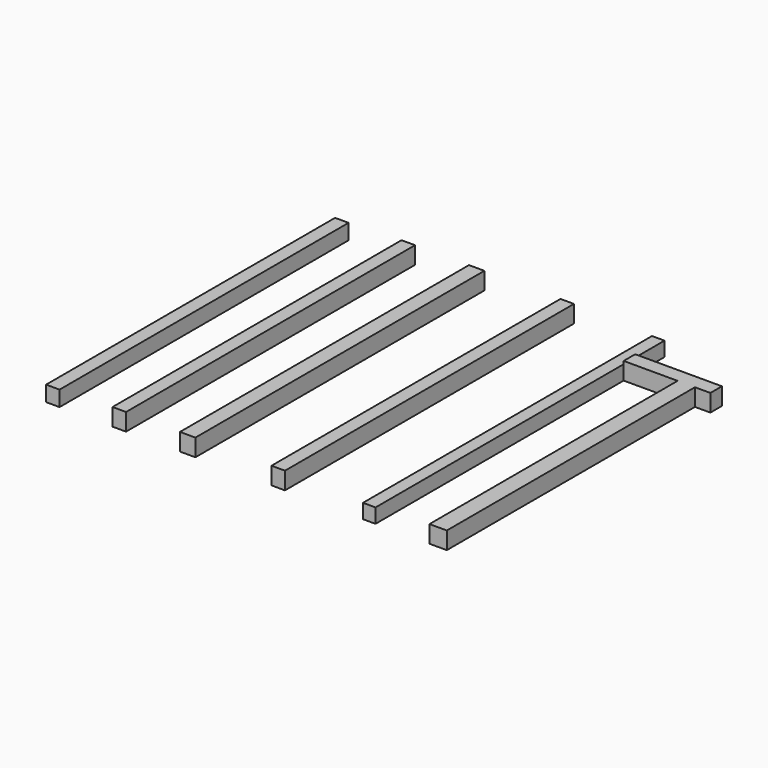
from build123d import *

# Parameters (mm, degrees)
F0_W     = 180
F0_H     = 3220
F0_W_2   = 140
F0_H_2   = 3750
F0_W_3   = 160
F1_DEPTH = 180
F2_DEPTH = 150
F3_DEPTH = 160


with BuildPart() as f1:
    # F0 (on Top) → F1 (new body)
    with BuildSketch(Plane.XY):
        Polygon((1910, 1495), (1010, 1495), (1010, 1345), (1570, 1345), (1750, 1345), (1910, 1345), align=None)
        with Locations((1660, -265)):
            Rectangle(F0_W, F0_H)
        Rectangle(F0_W_2, F0_H_2)
        with Locations((-940, 0)):
            Rectangle(F0_W_3, F0_H_2)
        with Locations((-1650, 0)):
            Rectangle(F0_W_2, F0_H_2)
    extrude(amount=F1_DEPTH)

    # F0 (on Top) → F2 (join)
    with BuildSketch(Plane.XY):
        Polygon((1010, 1875), (880, 1875), (880, -1875), (1010, -1875), (1010, 1345), (1010, 1495), align=None)
    extrude(amount=F2_DEPTH)


with BuildPart() as f3:
    # F0 (on Top) → F3 (new body)
    with BuildSketch(Plane.XY):
        with Locations((-2340, 0)):
            Rectangle(F0_W_2, F0_H_2)
    extrude(amount=F3_DEPTH)


solid = Compound([f1.part, f3.part])
